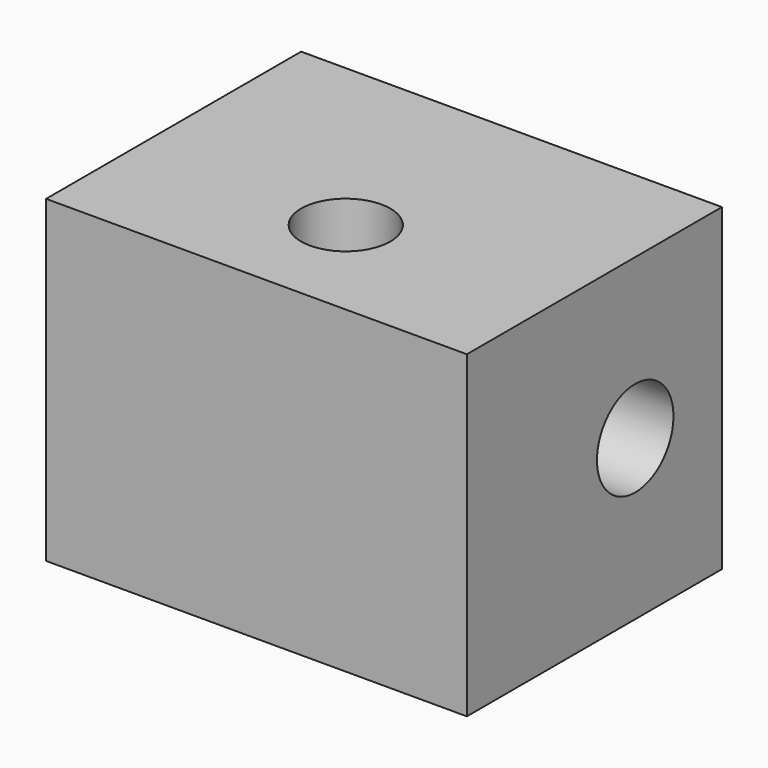
from build123d import *

# Parameters (mm, degrees)
F0_W     = 33
F0_H     = 25
F1_DEPTH = 25
F2_R     = 3.5
F3_DEPTH = 25.001
F4_R     = 3.75
F5_DEPTH = 33.001


with BuildPart() as f1:
    # F0 (on Front) → F1 (new body)
    with BuildSketch(Plane.XZ):
        with Locations((16.5, 12.5)):
            Rectangle(F0_W, F0_H)
    extrude(amount=F1_DEPTH)

    # F2 (on Top) → F3 (cut, through all)
    with BuildSketch(Plane.XY):
        with Locations((16.5, -16.25)):
            Circle(F2_R)
    extrude(amount=F3_DEPTH, mode=Mode.SUBTRACT)

    # F4 (on Right) → F5 (cut, through all)
    with BuildSketch(Plane.YZ):
        with Locations((-8.5, 12.5)):
            Circle(F4_R)
    extrude(amount=F5_DEPTH, mode=Mode.SUBTRACT)


solid = f1.part
